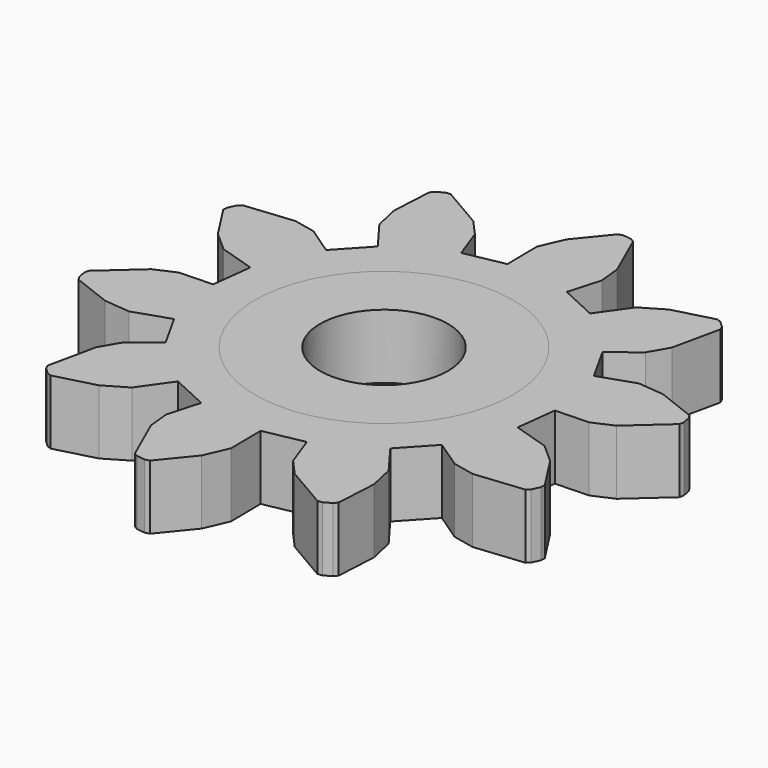
from build123d import *

# Parameters (mm, degrees)
F0_R     = 6.4
F1_DEPTH = 1.6
F2_R     = 6.4
F2_R_2   = 3.175
F3_DEPTH = 1.6


with BuildPart() as f1:
    # F0 (on Top) → F1 (new body, symmetric)
    with BuildSketch(Plane.XY):
        Polygon((8.247477, -2.009317), (8.488715, 0), (10.153606, 0.058349), (11.15695, 0.503572), (12.976533, 2.131298), (13.018841, 2.349597), (12.936343, 2.768), (12.814343, 2.953887), (10.901054, 3.695576), (9.618406, 3.818704), (7.853398, 3.222175), (6.867516, 4.989538), (8.18014, 6.015345), (8.730165, 6.965288), (9.245486, 9.351671), (9.151408, 9.553142), (8.838732, 9.843152), (8.630761, 9.92183), (6.646933, 9.397267), (5.536882, 8.742953), (4.459578, 7.222904), (2.623158, 8.073248), (3.08214, 9.674683), (2.968757, 10.766495), (1.982981, 13.000019), (1.788442, 13.107723), (1.365029, 13.158558), (1.150532, 13.099962), (-0.146094, 11.509516), (-0.659553, 10.327693), (-0.637637, 8.464735), (-2.623159, 8.073248), (-3.193133, 9.63862), (-3.926611, 10.455274), (-6.036954, 11.68281), (-6.257643, 11.655592), (-6.63007, 11.447842), (-6.769171, 11.274362), (-6.883312, 9.225527), (-6.604053, 7.967609), (-5.491304, 6.473313), (-6.867516, 4.989538), (-8.24873, 5.920934), (-9.322153, 6.150486), (-11.750984, 5.903154), (-11.913527, 5.751424), (-12.092711, 5.364435), (-12.103276, 5.142335), (-10.991347, 3.417693), (-10.026033, 2.564165), (-8.247477, 2.009316), (-8.488715, 0), (-10.153606, -0.05835), (-11.15695, -0.503573), (-12.976534, -2.131299), (-13.018841, -2.349597), (-12.936343, -2.768001), (-12.814344, -2.953888), (-10.901054, -3.695577), (-9.618407, -3.818705), (-7.853398, -3.222176), (-6.867516, -4.989539), (-8.18014, -6.015346), (-8.730165, -6.965289), (-9.245486, -9.351672), (-9.151408, -9.553143), (-8.838732, -9.843153), (-8.630762, -9.921831), (-6.646933, -9.397268), (-5.536883, -8.742954), (-4.459579, -7.222905), (-2.623159, -8.073249), (-3.08214, -9.674684), (-2.968757, -10.766496), (-1.982982, -13.00002), (-1.788442, -13.107723), (-1.36503, -13.158559), (-1.150532, -13.099963), (0.146094, -11.509517), (0.659553, -10.327694), (0.637637, -8.464736), (2.623158, -8.073249), (3.193133, -9.638621), (3.926611, -10.455275), (6.036954, -11.68281), (6.257642, -11.655593), (6.63007, -11.447843), (6.76917, -11.274363), (6.883311, -9.225527), (6.604053, -7.96761), (5.491303, -6.473314), (6.867516, -4.989539), (8.248729, -5.920935), (9.322152, -6.150487), (11.750984, -5.903155), (11.913526, -5.751425), (12.09271, -5.364436), (12.103276, -5.142336), (10.991347, -3.417694), (10.026032, -2.564166), align=None)
        Circle(F0_R, mode=Mode.SUBTRACT)
    extrude(amount=F1_DEPTH, both=True)


with BuildPart() as f3:
    # F2 (on Top) → F3 (new body, symmetric)
    with BuildSketch(Plane.XY):
        Circle(F2_R)
        Circle(F2_R_2, mode=Mode.SUBTRACT)
    extrude(amount=F3_DEPTH, both=True)


solid = Compound([f1.part, f3.part])
